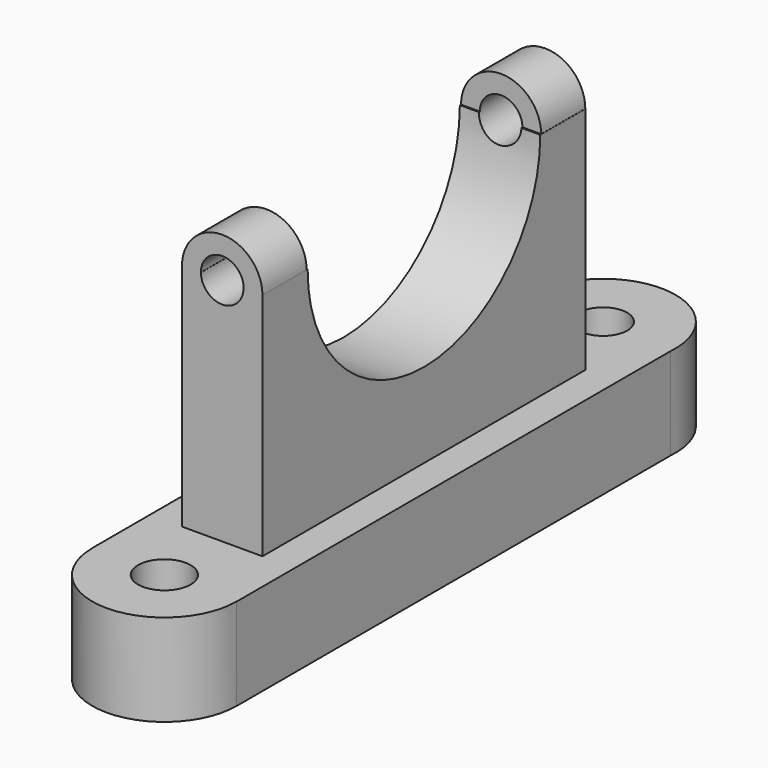
from build123d import *

# Parameters (mm, degrees)
F0_R      = 7.272235
F0_R_2    = 6.683406
F1_DEPTH  = 25.4
F2_W      = 22.214184
F2_H      = 111.52488
F3_DEPTH  = 63.5
F5_DEPTH  = 31.140026
F7_DEPTH  = 15.24
F9_DEPTH  = 15.24
F10_R     = 5.88112
F11_DEPTH = 151.526764


with BuildPart() as f1:
    # F0 (on Top) → F1 (new body)
    with BuildSketch(Plane.XY):
        with BuildLine():
            Line((-19.966846, 74.117869), (-19.966846, -75.731389))
            Line((-19.966846, -75.731389), (-19.936258, -75.731389))
            ThreePointArc((-19.936258, -75.731389), (0, -95.667647), (19.936258, -75.731389))
            Line((19.936258, -75.731389), (19.966846, -75.731389))
            Line((19.966846, -75.731389), (19.966846, 74.117869))
            ThreePointArc((19.966846, 74.117869), (0, 95.763324), (-19.966846, 74.117869))
        make_face()
        with Locations((0, -75.731389)):
            Circle(F0_R, mode=Mode.SUBTRACT)
        with Locations((0, 75.731389)):
            Circle(F0_R_2, mode=Mode.SUBTRACT)
    extrude(amount=F1_DEPTH)

    # F2 (on face) → F3 (join)
    with BuildSketch(Plane.XY.offset(25.4)):
        Rectangle(F2_W, F2_H)
    extrude(amount=F3_DEPTH)

    # F4 (on face) → F5 (cut, through all)
    with BuildSketch(Plane.YZ.offset(11.107092)):
        with BuildLine():
            Line((40.165234, 88.9), (-40.165234, 88.9))
            ThreePointArc((-40.165234, 88.9), (0, 48.734766), (40.165234, 88.9))
        make_face()
    extrude(amount=-F5_DEPTH, mode=Mode.SUBTRACT)

    # F6 (on face) → F7 (join)
    with BuildSketch(Plane.XZ.offset(55.76244)):
        with BuildLine():
            Line((5.916213, 88.9), (11.107092, 88.9))
            ThreePointArc((11.107092, 88.9), (0, 100.007092), (-11.107092, 88.9))
            Line((-11.107092, 88.9), (-5.916213, 88.9))
            ThreePointArc((-5.916213, 88.9), (0, 94.816213), (5.916213, 88.9))
        make_face()
    extrude(amount=-F7_DEPTH)

    # F8 (on face) → F9 (join)
    with BuildSketch(Plane(origin=(0, 55.76244, 0), x_dir=(-1, 0, 0), z_dir=(0, 1, 0))):
        with BuildLine():
            Line((-11.068059, 88.9), (11.068059, 88.9))
            ThreePointArc((11.068059, 88.9), (0, 99.968059), (-11.068059, 88.9))
        make_face()
    extrude(amount=-F9_DEPTH)

    # F10 (on face) → F11 (cut, through all)
    with BuildSketch(Plane.XZ.offset(55.76244)):
        with Locations((0, 88.9)):
            Circle(F10_R)
    extrude(amount=-F11_DEPTH, mode=Mode.SUBTRACT)


solid = f1.part
